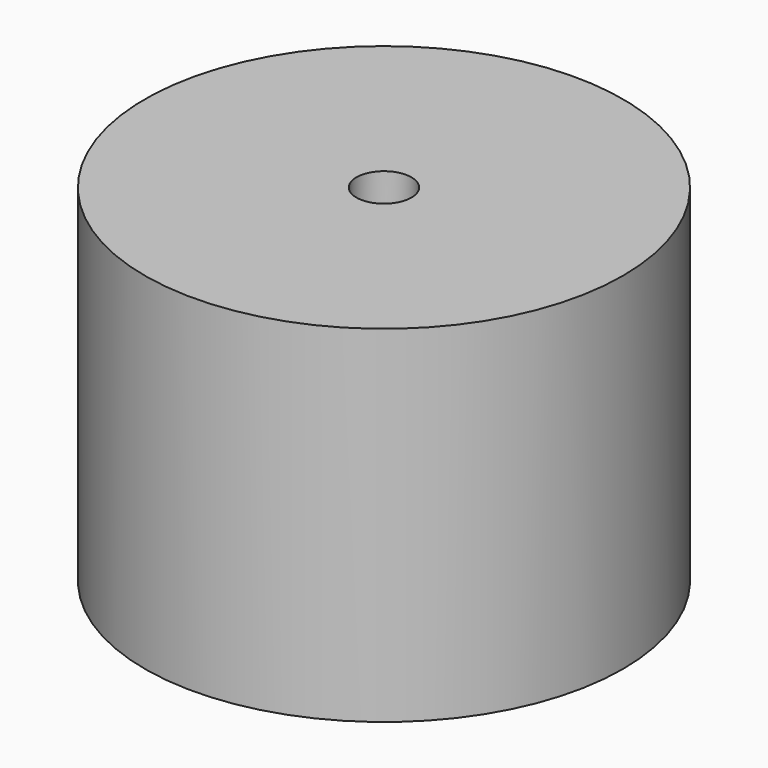
from build123d import *

# Parameters (mm, degrees)
F0_R      = 56.9
F1_DEPTH  = 82.4
F2_R      = 6.55
F3_DEPTH  = 82.4
F4_R      = 56
F5_DEPTH  = 47.7
F6_R      = 42.9
F7_DEPTH  = 65.4
F8_R      = 23.8
F9_DEPTH  = 69.4
F10_R     = 12.75
F11_DEPTH = 71.2


with BuildPart() as f1:
    # F0 (on Top) → F1 (new body)
    with BuildSketch(Plane.XY):
        Circle(F0_R)
    extrude(amount=F1_DEPTH)

    # F2 (on Top) → F3 (cut)
    with BuildSketch(Plane.XY):
        Circle(F2_R)
    extrude(amount=F3_DEPTH, mode=Mode.SUBTRACT)

    # F4 (on Top) → F5 (cut)
    with BuildSketch(Plane.XY):
        Circle(F4_R)
    extrude(amount=F5_DEPTH, mode=Mode.SUBTRACT)

    # F6 (on Top) → F7 (cut)
    with BuildSketch(Plane.XY):
        Circle(F6_R)
    extrude(amount=F7_DEPTH, mode=Mode.SUBTRACT)

    # F8 (on Top) → F9 (cut)
    with BuildSketch(Plane.XY):
        Circle(F8_R)
    extrude(amount=F9_DEPTH, mode=Mode.SUBTRACT)

    # F10 (on Top) → F11 (cut)
    with BuildSketch(Plane.XY):
        Circle(F10_R)
    extrude(amount=F11_DEPTH, mode=Mode.SUBTRACT)


solid = f1.part
